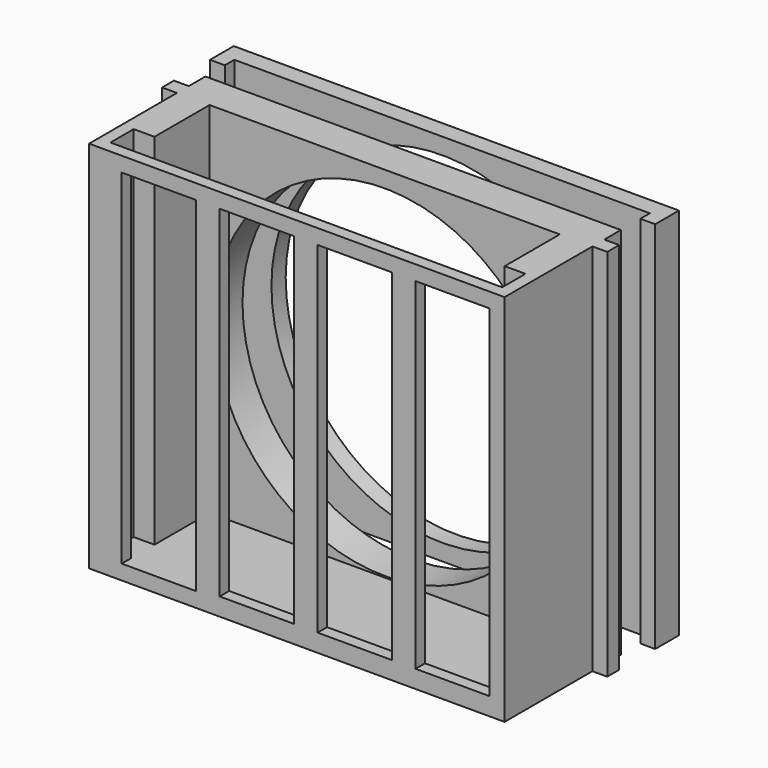
from build123d import *

# Parameters (mm, degrees)
F0_W          = 7
F0_H          = 23.2
F0_W_2        = 5
F0_H_2        = 5
F1_DEPTH      = 126
F2_W          = 25
F2_H          = 116
F2_H_2        = 115
F3_DEPTH      = 6
F4_R          = 57.5
F5_DEPTH      = 35
F5_DEPTH_BACK = 25
F6_DEPTH      = 5
F7_R          = 2.5
F8_DEPTH      = 10
F8_DEPTH_BACK = 25


with BuildPart() as f1:
    # F0 (on Top) → F1 (new body)
    with BuildSketch(Plane.XY):
        Polygon((70, 26), (-70, 26), (-70, 19), (-70, 14), (-70, -23), (70, -23), (70, 14), (70, 19), align=None)
        Polygon((-66, -9.2), (-66, 14), (-59, 14), (59, 14), (66, 14), (66, -9.2), (66, -19), (-66, -19), align=None, mode=Mode.SUBTRACT)
        Polygon((70, 26), (-70, 26), (-70, 19), (-70, 14), (-70, -23), (70, -23), (70, 14), (70, 19), align=None)
        Polygon((-66, -9.2), (-66, 14), (-59, 14), (59, 14), (66, 14), (66, -9.2), (66, -19), (-66, -19), align=None, mode=Mode.SUBTRACT)
        Polygon((70, 26), (-70, 26), (-70, 19), (-70, 14), (-70, -23), (70, -23), (70, 14), (70, 19), align=None)
        Polygon((-66, -9.2), (-66, 14), (-59, 14), (59, 14), (66, 14), (66, -9.2), (66, -19), (-66, -19), align=None, mode=Mode.SUBTRACT)
        with Locations((-62.5, 2.4)):
            Rectangle(F0_W, F0_H)
        with Locations((62.5, 2.4)):
            Rectangle(F0_W, F0_H)
        with Locations((-72.5, 16.5)):
            Rectangle(F0_W_2, F0_H_2)
        with Locations((72.5, 16.5)):
            Rectangle(F0_W_2, F0_H_2)
    extrude(amount=F1_DEPTH)

    # F2 (on face) → F3 (cut)
    with BuildSketch(Plane.XZ.offset(23)):
        with Locations((-46.5, 63)):
            Rectangle(F2_W, F2_H)
        with Locations((-13.5, 63.5)):
            Rectangle(F2_W, F2_H_2)
        with Locations((19.5, 63.5)):
            Rectangle(F2_W, F2_H_2)
        with Locations((52.5, 63.5)):
            Rectangle(F2_W, F2_H_2)
    extrude(amount=-F3_DEPTH, mode=Mode.SUBTRACT)


with BuildPart() as f1b:
    # F0 (on Top) → F1, piece 2 (new body)
    with BuildSketch(Plane.XY):
        Polygon((70, 34.1871231794), (75, 34.1871231794), (75, 44.1871231794), (-75, 44.1871231794), (-75, 34.1871231794), (-70, 34.1871231794), (-70, 38.1871231794), (70, 38.1871231794), align=None)
    extrude(amount=F1_DEPTH)


with BuildPart() as f5_tool:
    # F4 (on face) → F5 (new body, two sides)
    with BuildSketch(Plane(origin=(0, 26, 0), x_dir=(-1, 0, 0), z_dir=(0, 1, 0))) as f5_sk:
        with Locations((0, 63)):
            Circle(F4_R)
    extrude(amount=-F5_DEPTH)
    extrude(f5_sk.sketch, amount=F5_DEPTH_BACK)


with BuildPart() as f1_1:
    add(f1.part)

    # F5: cut by f5_tool
    add(f5_tool.part, mode=Mode.SUBTRACT)

    # F0 (on Top) → F6 (join)
    with BuildSketch(Plane.XY):
        Polygon((59, 14), (-59, 14), (-59, -9.2), (-66, -9.2), (-66, -19), (66, -19), (66, -9.2), (59, -9.2), align=None)
    extrude(amount=F6_DEPTH)


with BuildPart() as f1b_1:
    add(f1b.part)

    # F5: cut by f5_tool
    add(f5_tool.part, mode=Mode.SUBTRACT)


with BuildPart() as f8_tool:
    # F7 (on face) → F8 (new body, two sides)
    with BuildSketch(Plane(origin=(0, 26, 0), x_dir=(-1, 0, 0), z_dir=(0, 1, 0))) as f8_sk:
        with Locations((-52, 11)):
            Circle(F7_R)
        with Locations((52, 11)):
            Circle(F7_R)
        with Locations((52, 115)):
            Circle(F7_R)
        with Locations((-52, 115)):
            Circle(F7_R)
    extrude(amount=-F8_DEPTH)
    extrude(f8_sk.sketch, amount=F8_DEPTH_BACK)


with BuildPart() as f1_2:
    add(f1_1.part)

    # F8: cut by f8_tool
    add(f8_tool.part, mode=Mode.SUBTRACT)


with BuildPart() as f1b_2:
    add(f1b_1.part)

    # F8: cut by f8_tool
    add(f8_tool.part, mode=Mode.SUBTRACT)


solid = Compound([f1_2.part, f1b_2.part])
